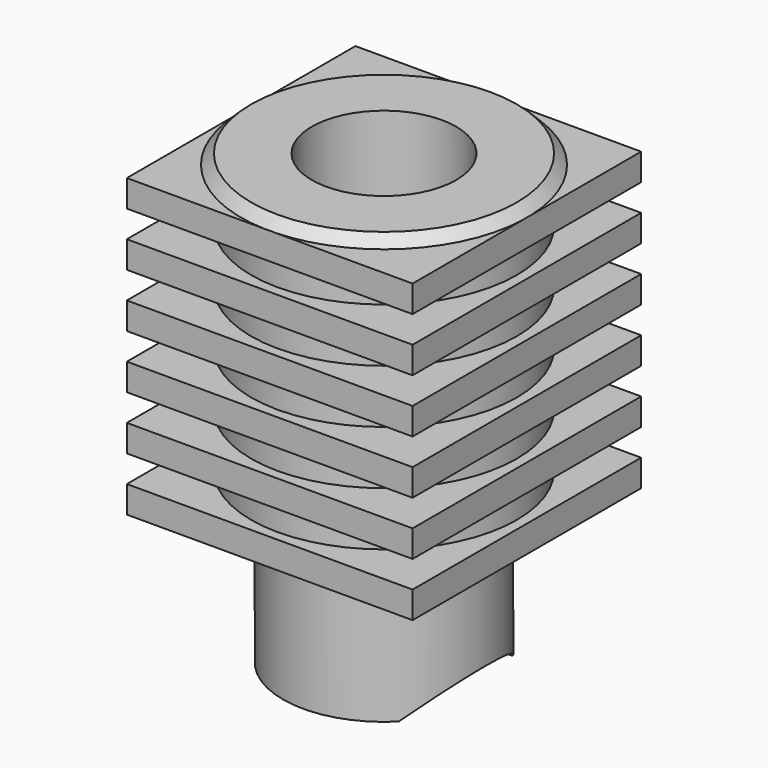
from build123d import *

# Parameters (mm, degrees)
F2_W     = 35.9156
F2_H     = 35.9156
F3_DEPTH = 56.3128
F5_DEPTH = 13.7000001


with BuildPart() as f1:
    # F0 (on Front) → F1 (revolve)
    with BuildSketch(Plane.XZ):
        Polygon((12.8905, 56.3118), (12.8905, 55.0418), (17.9705, 55.0418), (16.7005, 56.3118), align=None)
        Polygon((17.9705, 55.0418), (12.8905, 55.0418), (12.8905, 17.7884666667), (17.9705, 17.7884666667), (50.8, 17.7884666667), (50.8, 21.1751333333), (16.7005, 21.1751333333), (16.7005, 24.5618), (50.8, 24.5618), (50.8, 27.9484666667), (16.7005, 27.9484666667), (16.7005, 31.3351333333), (50.8, 31.3351333333), (50.8, 34.7218), (16.7005, 34.7218), (16.7005, 38.1084666667), (50.8, 38.1084666667), (50.8, 41.4951333333), (16.7005, 41.4951333333), (16.7005, 44.8818), (50.8, 44.8818), (50.8, 48.2684666667), (16.7005, 48.2684666667), (16.7005, 51.6551333333), (50.8, 51.6551333333), (50.8, 55.0418), align=None)
        Polygon((12.8905, 17.7884666667), (12.8905, 55.0418), (12.8905, 56.3118), (9.0805, 56.3118), (9.0805, 0), (12.7, 0), (12.7, 17.7884666667), align=None)
    revolve(axis=Axis((0, 0, 27.5209), (0, 0, 1)))

    # F2 (on face) → F3 (cut, through all)
    with BuildSketch(Plane.XY.offset(56.3118)):
        with BuildLine():
            ThreePointArc((50.8, 0), (35.9210245024, 35.9210244661), (5.14e-08, 50.8))
            ThreePointArc((5.14e-08, 50.8), (-35.9210245011, 35.9210244675), (-50.8, -9.89e-08))
            ThreePointArc((-50.8, -9.89e-08), (-35.9210244493, -35.9210245192), (0, -50.8))
            ThreePointArc((0, -50.8), (35.9210244843, -35.9210244843), (50.8, 0))
        make_face()
        Rectangle(F2_W, F2_H, mode=Mode.SUBTRACT)
    extrude(amount=-F3_DEPTH, mode=Mode.SUBTRACT)

    # F4 (on Right) → F5 (cut, up to face)
    with BuildSketch(Plane.YZ):
        with BuildLine():
            ThreePointArc((-8.9408, 0), (-4.8805494132, -20.7288154777), (12.6937813793, -9.0107813793))
            ThreePointArc((12.6937813793, -9.0107813793), (11.7180340984, -4.1302319661), (8.9408, 0))
            Line((8.9408, 0), (-8.9408, 0))
        make_face()
        with BuildLine():
            Line((-8.9408, 0), (8.9408, 0))
            ThreePointArc((8.9408, 0), (0, 3.683), (-8.9408, 0))
        make_face()
    extrude(amount=F5_DEPTH, mode=Mode.SUBTRACT)


solid = f1.part
